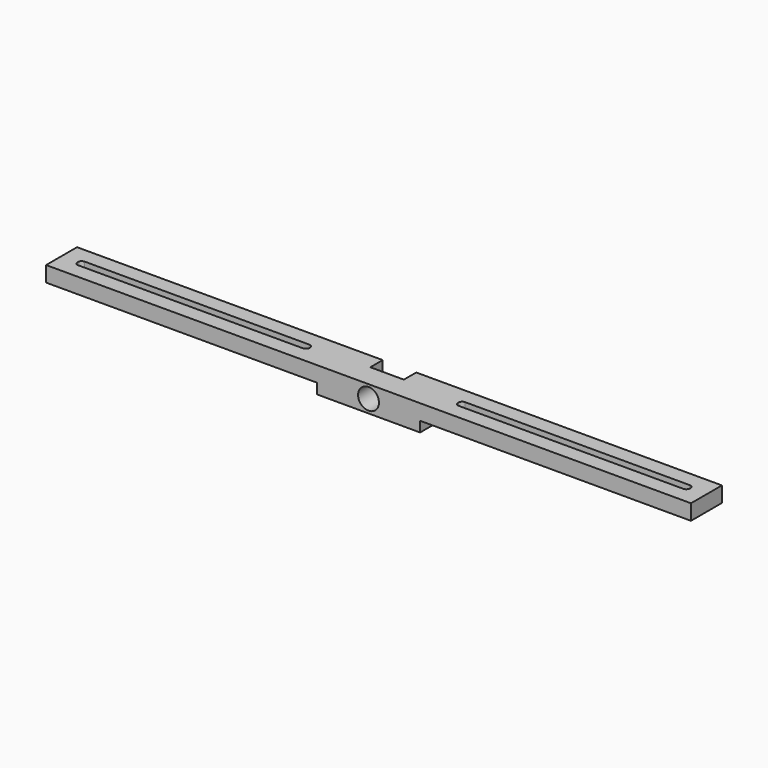
from build123d import *

# Parameters (mm, degrees)
F0_W     = 105
F0_H     = 15
F0_W_2   = 92.5
F0_H_2   = 5.6
F0_W_3   = 90
F0_H_3   = 3.1
F0_W_4   = 40
F1_DEPTH = 10
F2_DEPTH = 6.5
F3_W     = 13
F3_H     = 10
F4_DEPTH = 6
F5_D     = 8.1
F5_DEPTH = 22
F5_START = 6
F5_TIP   = 2.4334855071
F6_DEPTH = 4
F7_R     = 2.5
F8_R     = 1.5


with BuildPart() as f1:
    # F0 (on Top) → F1 (new body)
    with BuildSketch(Plane.XY):
        with Locations((72.5, 0)):
            Rectangle(F0_W, F0_H)
        with Locations((73.75, 0)):
            Rectangle(F0_W_2, F0_H_2, mode=Mode.SUBTRACT)
        with Locations((-72.5, 0)):
            Rectangle(F0_W, F0_H)
        with Locations((-73.75, 0)):
            Rectangle(F0_W_2, F0_H_2, mode=Mode.SUBTRACT)
        with Locations((-73.75, 0)):
            Rectangle(F0_W_2, F0_H_2)
        with Locations((-73.75, 0)):
            Rectangle(F0_W_3, F0_H_3, mode=Mode.SUBTRACT)
        with Locations((73.75, 0)):
            Rectangle(F0_W_2, F0_H_2)
        with Locations((73.75, 0)):
            Rectangle(F0_W_3, F0_H_3, mode=Mode.SUBTRACT)
        Rectangle(F0_W_4, F0_H)
    extrude(amount=F1_DEPTH)

    # F0 (on Top) → F2 (cut)
    with BuildSketch(Plane.XY):
        with Locations((73.75, 0)):
            Rectangle(F0_W_2, F0_H_2)
        with Locations((73.75, 0)):
            Rectangle(F0_W_3, F0_H_3, mode=Mode.SUBTRACT)
        with Locations((-73.75, 0)):
            Rectangle(F0_W_2, F0_H_2)
        with Locations((-73.75, 0)):
            Rectangle(F0_W_3, F0_H_3, mode=Mode.SUBTRACT)
    extrude(amount=F2_DEPTH, mode=Mode.SUBTRACT)

    # F3 (on face) → F4 (cut)
    with BuildSketch(Plane(origin=(0, 7.5, 0), x_dir=(-1, 0, 0), z_dir=(0, 1, 0))):
        with Locations((0, 5)):
            Rectangle(F3_W, F3_H)
    extrude(amount=-F4_DEPTH, mode=Mode.SUBTRACT)

    # F5
    # its depths count from where the whole tool has entered the part; down to there all is cleared
    with Locations(Plane(origin=(0, 7.5, 0), x_dir=(-1, 0, 0), z_dir=(0, 1, 0)).offset(-F5_START)):
        with Locations((0, 5)):
            Hole(F5_D / 2, depth=F5_DEPTH)
            with Locations((0, 0, -(F5_DEPTH + F5_TIP / 2))):  # 118° drill point
                Cone(0, F5_D / 2, F5_TIP, mode=Mode.SUBTRACT)

    # F0 (on Top) → F6 (cut)
    with BuildSketch(Plane.XY):
        with Locations((-72.5, 0)):
            Rectangle(F0_W, F0_H)
        with Locations((-73.75, 0)):
            Rectangle(F0_W_2, F0_H_2, mode=Mode.SUBTRACT)
        with Locations((72.5, 0)):
            Rectangle(F0_W, F0_H)
        with Locations((73.75, 0)):
            Rectangle(F0_W_2, F0_H_2, mode=Mode.SUBTRACT)
    extrude(amount=F6_DEPTH, mode=Mode.SUBTRACT)

    # F7
    f7_edges = [f1.edges().sort_by_distance(p)[0] for p in [
        (-27.5, 2.8, 5.25),
        (-27.5, -2.8, 5.25),
        (-120, 2.8, 5.25),
        (-120, -2.8, 5.25),
        (27.5, -2.8, 5.25),
        (120, -2.8, 5.25),
        (120, 2.8, 5.25),
        (27.5, 2.8, 5.25),
    ]]
    fillet(f7_edges, radius=F7_R)

    # F8
    f8_edges = [f1.edges().sort_by_distance(p)[0] for p in [
        (28.75, 1.55, 8.25),
        (28.75, -1.55, 8.25),
        (118.75, 1.55, 8.25),
        (118.75, -1.55, 8.25),
        (-28.75, -1.55, 8.25),
        (-28.75, 1.55, 8.25),
        (-118.75, 1.55, 8.25),
        (-118.75, -1.55, 8.25),
    ]]
    fillet(f8_edges, radius=F8_R)


solid = f1.part
